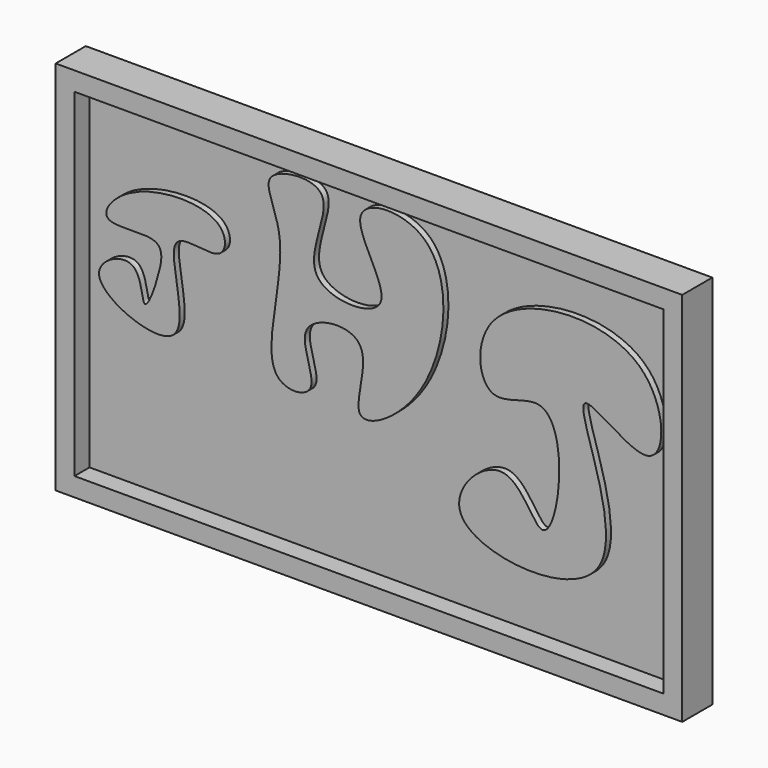
from build123d import *

# Parameters (mm, degrees)
F0_W     = 500
F0_H     = 300
F1_DEPTH = 30
F2_W     = 470
F2_H     = 270
F3_DEPTH = 15
F5_DEPTH = 5
F6_R     = 7.5
F7_DEPTH = 5


with BuildPart() as f1:
    # F0 (on Front) → F1 (new body)
    with BuildSketch(Plane.XZ):
        with Locations((-250, 150)):
            Rectangle(F0_W, F0_H)
    extrude(amount=F1_DEPTH)

    # F2 (on face) → F3 (cut)
    with BuildSketch(Plane.XZ.offset(30)):
        with Locations((-250, 150)):
            Rectangle(F2_W, F2_H)
    extrude(amount=-F3_DEPTH, mode=Mode.SUBTRACT)

    # F4 (on face) → F5 (join)
    with BuildSketch(Plane.XZ.offset(15)):
        with BuildLine():
            add(Edge.make_bspline(
                [(-448.8054513931, 221.5435802937), (-426.6628169338, 233.256228151), (-370.1772333178, 234.9846973118), (-372.083828823, 191.4963633825), (-433.0365280847, 217.9314614562), (-382.1213929534, 103.3779869967), (-501.9043476633, 152.4470818998), (-438.6811988974, 185.9104421135), (-439.8328608067, 131.3177745648), (-423.9661658259, 174.0486999615), (-420.9476769299, 201.8629231998), (-480.2870733753, 188.8235009479), (-462.9909924276, 214.039945299), (-448.8054513931, 221.5435802937)],
                knots=[0, 0, 0, 0, 0.126334898, 0.1933564262, 0.2802897097, 0.4010010476, 0.5202608286, 0.6029622656, 0.6794251494, 0.7576657836, 0.8277318117, 0.9190643334, 1, 1, 1, 1], degree=3))
        make_face()
        with BuildLine():
            add(Edge.make_bspline(
                [(-329.2207419872, 228.5007834435), (-325.7830009591, 196.7786672203), (-353.7964826259, 120.8789892276), (-289.2824032117, 124.8980863494), (-327.5919905554, 180.2977552249), (-244.9498957116, 189.9008094809), (-283.9698822732, 103.9823857259), (-199.1881956968, 151.9461814636), (-186.6178673096, 282.0960880386), (-293.1345409483, 277.4101662217), (-217.7982715033, 195.8855841284), (-328.0519378725, 198.305986936), (-271.0438908179, 283.7227011108), (-354.5020024804, 274.780378235), (-331.4761375908, 249.3126831413), (-329.2207419872, 228.5007834435)],
                knots=[0, 0, 0, 0, 0.1039819713, 0.1576990303, 0.224794325, 0.2927601848, 0.3665325911, 0.4450168863, 0.5553343465, 0.6298455831, 0.7103252797, 0.7848848473, 0.8655773857, 0.9317806434, 1, 1, 1, 1], degree=3))
        make_face()
        with BuildLine():
            add(Edge.make_bspline(
                [(-158.4731042385, 226.3810485601), (-134.9245719571, 253.6595760346), (-22.1874934725, 262.667291385), (-19.012235535, 139.3216405871), (-122.1543374549, 236.1242752678), (-14.9229122531, 41.0978156476), (-227.9343205248, 62.1578421069), (-145.3679198464, 147.6761371731), (-118.9571479917, 68.6719244055), (-100.9181998361, 134.6021641507), (-113.8576463292, 194.373289858), (-168.7078466629, 157.1250530991), (-174.0264878274, 208.3640699867), (-158.4731042385, 226.3810485601)],
                knots=[0, 0, 0, 0, 0.1237758963, 0.2121489915, 0.2963175108, 0.4168632696, 0.5366003759, 0.6191443141, 0.6938760136, 0.7682604598, 0.8483622292, 0.9182482385, 1, 1, 1, 1], degree=3))
        make_face()
    extrude(amount=F5_DEPTH)

    # F6 (on face) → F7 (join)
    with BuildSketch(Plane(origin=(0, 0, 0), x_dir=(-1, 0, 0), z_dir=(0, 1, 0))):
        with Locations((250, 150)):
            Circle(F6_R)
    extrude(amount=F7_DEPTH)


solid = f1.part
